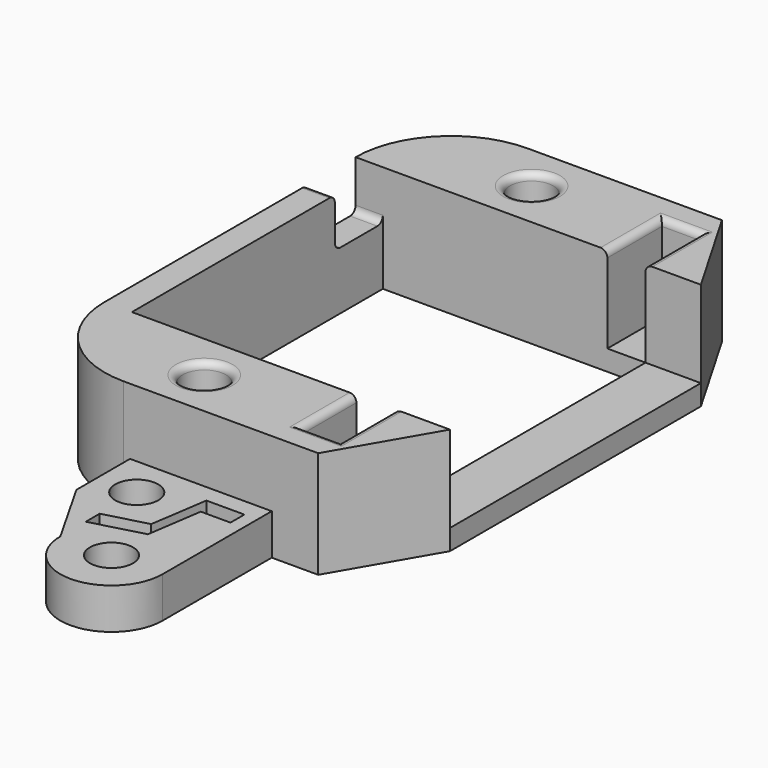
from build123d import *

# Parameters (mm, degrees)
PAD_DEPTH         = 6.35
SKETCH001_W       = 19.26
SKETCH001_H       = 23
PAD001_DEPTH      = 1.5
SKETCH003_R       = 1.58
POCKET_DEPTH      = 92.53341
POCKET_DEPTH_BACK = 97.38341
SKETCH002_W       = 4.4
SKETCH002_H       = 3.6
POCKET001_DEPTH   = 14.106
SKETCH004_R       = 1.58
PAD002_DEPTH      = 3
FILLET_R          = 7
FILLET001_R       = 0.5


with BuildPart() as part:
    # Sketch → Pad (new body)
    with BuildSketch(Plane.XY):
        Polygon((4.355, -11.5), (-12.105, -11.5), (-12.105, 11.5), (4.355, 11.5), (4.355, 16.5), (7.155, 16.5), (7.155, 11.5), (11.215, 11.5), (7.155, 18.5), (-14.105, 18.5), (-14.105, -18.5), (7.155, -18.5), (11.215, -11.5), (7.155, -11.5), (7.155, -16.5), (4.355, -16.5), align=None)
    extrude(amount=PAD_DEPTH)

    # Sketch001 → Pad001 (join)
    with BuildSketch(Plane.XY):
        Polygon((-14.105, 0), (-14.105, 18.5), (7.155, 18.5), (11.215, 11.5), (11.215, -11.5), (7.155, -18.5), (-14.105, -18.5), align=None)
        with Locations((-2.475, 0)):
            Rectangle(SKETCH001_W, SKETCH001_H, mode=Mode.SUBTRACT)
    extrude(amount=-PAD001_DEPTH)

    # Sketch003 → Pocket (cut, two sides)
    with BuildSketch(Plane.XY) as pocket_sk:
        with Locations((-4, 15)):
            Circle(SKETCH003_R)
    pocket = extrude(amount=-POCKET_DEPTH, mode=Mode.SUBTRACT) + extrude(pocket_sk.sketch, amount=POCKET_DEPTH_BACK, mode=Mode.SUBTRACT)

    # Mirrored: Pocket across Sketch003 H_Axis
    add(pocket.mirror(Plane.ZX), mode=Mode.SUBTRACT)

    # Sketch002 → Pocket001 (cut, through all)
    with BuildSketch(Plane.YZ):
        with Locations((9.3, 4.55)):
            Rectangle(SKETCH002_W, SKETCH002_H)
    extrude(amount=-POCKET001_DEPTH, mode=Mode.SUBTRACT)

    # Sketch004 → Pad002 (join)
    with BuildSketch(Plane.XY.offset(-1.5)):
        with BuildLine():
            Line((-6.641136, -18.5), (3.75, -18.5))
            Line((3.75, -18.5), (3.75, -28.5))
            ThreePointArc((-3.75, -28.5), (0, -32.25), (3.75, -28.5))
            Line((-3.75, -28.5), (-6.641136, -23.414276))
            Line((-6.641136, -23.414276), (-6.641136, -18.5))
        make_face()
        with Locations((0, -28.5)):
            Circle(SKETCH004_R, mode=Mode.SUBTRACT)
        with Locations((-3.75, -21.5)):
            Circle(SKETCH004_R, mode=Mode.SUBTRACT)
        Polygon((2.788238, -19.805846), (0, -19.805846), (-0.638352, -24.059963), (-3.75, -24.893727), (-3.75, -26.170431), (0, -25.165621), (0.612686, -21.08255), (2.788238, -21.08255), align=None, mode=Mode.SUBTRACT)
    extrude(amount=PAD002_DEPTH)

    # Fillet
    fillet_edges = [part.edges().sort_by_distance(p)[0] for p in [
        (-14.105, 18.5, 3.175),
        (-14.105, -18.5, 3.175),
    ]]
    fillet(fillet_edges, radius=FILLET_R)

    # Fillet001
    fillet001_edges = [part.edges().sort_by_distance(p)[0] for p in [
        (-5.58, 15, 6.35),
        (-5.58, -15, 6.35),
        (7.155, -14, 6.35),
        (4.355, -14, 6.35),
        (5.755, -16.5, 6.35),
        (4.355, 14, 6.35),
        (5.755, 16.5, 6.35),
        (7.155, 14, 6.35),
        (-13.105, 7.1, 6.35),
        (-13.105, 7.1, 2.75),
        (-13.105, 11.5, 2.75),
    ]]
    fillet(fillet001_edges, radius=FILLET001_R)


solid = part.part
